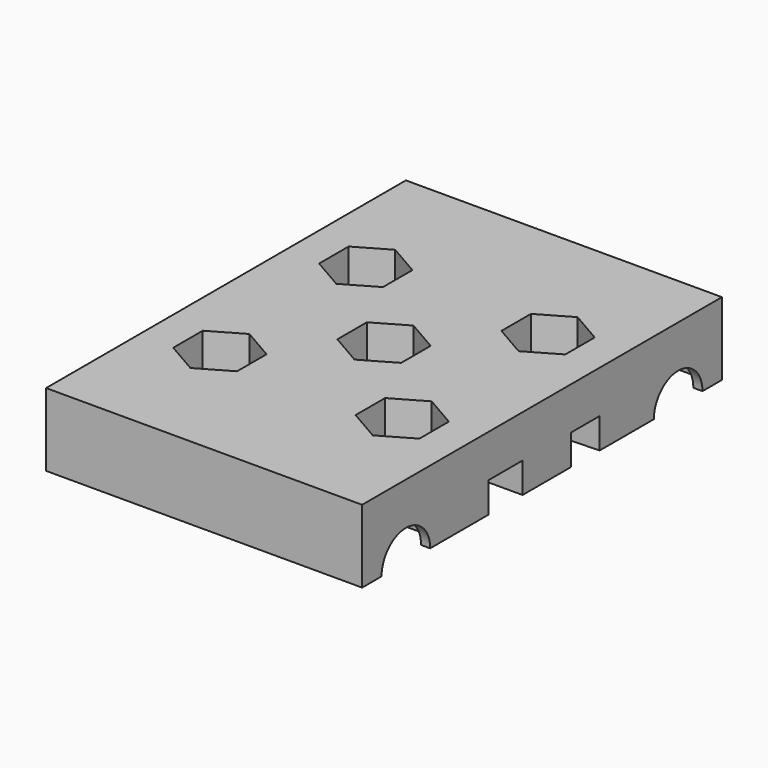
from build123d import *

# Parameters (mm, degrees)
PAD001_DEPTH      = 5
CYLINDER001_R     = 7.75
CYLINDER001_DEPTH = 24.5
CYLINDER_R        = 5
CYLINDER_DEPTH    = 90
SKETCH_W          = 52
SKETCH_H          = 74
PAD_DEPTH         = 12
POCKET_DEPTH      = 6
SKETCH004_R       = 3.3
POCKET001_DEPTH   = 6.001
POCKET002_DEPTH   = 5
SKETCH006_W       = 52
SKETCH006_H       = 7
POCKET003_DEPTH   = 5


with BuildPart() as beltholderpad:
    # Sketch003 → Pad001 (new body)
    with BuildSketch(Plane.XY):
        with BuildLine():
            ThreePointArc((0, 6), (0.2595, 6.063605), (0.460174, 6.24))
            ThreePointArc((0.460174, 6.24), (0.541791, 6.413802), (0.588686, 6.6))
            ThreePointArc((0.738686, 6.75), (0.63262, 6.706066), (0.588686, 6.6))
            Line((0.738686, 6.75), (1.261311, 6.75))
            ThreePointArc((1.411314, 6.6), (1.367379, 6.706067), (1.261311, 6.75))
            ThreePointArc((1.411314, 6.6), (1.458209, 6.413802), (1.539826, 6.24))
            ThreePointArc((1.539826, 6.24), (1.7405, 6.063605), (2, 6))
            Line((2, 6), (2, 7.38))
            Line((0, 7.38), (2, 7.38))
            Line((0, 6), (0, 7.38))
        make_face()
    extrude(amount=PAD001_DEPTH)


with BuildPart() as clone_of_beltholderpad:
    # Clone base: copy of BeltHolderPad
    add(beltholderpad.part)


with BuildPart() as clone_of_beltholderpad_1:
    # Clone placement: moved
    add(clone_of_beltholderpad.part.moved(Location((2, 0, 0))))


with BuildPart() as beltholderfusion1:
    # Fusion003 base: copy of BeltHolderPad
    add(beltholderpad.part)

    # Fusion003: union Clone of BeltHolderPad
    add(clone_of_beltholderpad_1.part)


with BuildPart() as clone_of_beltholderfusion1:
    # Clone001 base: copy of BeltHolderFusion1
    add(beltholderfusion1.part)


with BuildPart() as clone_of_beltholderfusion1_1:
    # Clone001 placement: moved
    add(clone_of_beltholderfusion1.part.moved(Location((4, 0, 0))))


with BuildPart() as beltholderfusion2:
    # Fusion004 base: copy of BeltHolderFusion1
    add(beltholderfusion1.part)

    # Fusion004: union Clone of BeltHolderFusion1
    add(clone_of_beltholderfusion1_1.part)


with BuildPart() as clone_of_beltholderfusion2:
    # Clone002 base: copy of BeltHolderFusion2
    add(beltholderfusion2.part)


with BuildPart() as clone_of_beltholderfusion2_1:
    # Clone002 placement: moved
    add(clone_of_beltholderfusion2.part.moved(Location((8, 0, 0))))


with BuildPart() as beltholderfusion3:
    # Fusion005 base: copy of BeltHolderFusion2
    add(beltholderfusion2.part)

    # Fusion005: union Clone of BeltHolderFusion2
    add(clone_of_beltholderfusion2_1.part)


with BuildPart() as clone_of_beltholderfusion3:
    # Clone003 base: copy of BeltHolderFusion3
    add(beltholderfusion3.part)


with BuildPart() as clone_of_beltholderfusion3_1:
    # Clone003 placement: moved
    add(clone_of_beltholderfusion3.part.moved(Location((16, 0, 0))))


with BuildPart() as beltholderfusion4:
    # Fusion006 base: copy of BeltHolderFusion3
    add(beltholderfusion3.part)

    # Fusion006: union Clone of BeltHolderFusion3
    add(clone_of_beltholderfusion3_1.part)


with BuildPart() as clone_of_beltholderfusion4:
    # Clone004 base: copy of BeltHolderFusion4
    add(beltholderfusion4.part)


with BuildPart() as clone_of_beltholderfusion4_1:
    # Clone004 placement: moved
    add(clone_of_beltholderfusion4.part.moved(Location((32, 0, 0))))


with BuildPart() as beltholderfusion5:
    # Fusion007 base: copy of BeltHolderFusion4
    add(beltholderfusion4.part)

    # Fusion007: union Clone of BeltHolderFusion4
    add(clone_of_beltholderfusion4_1.part)


with BuildPart() as obj1:
    # Part__Mirroring003: instance of BeltHolderFusion5
    add(beltholderfusion5.part.mirror(Plane(origin=(0, 0, 0), x_dir=(0, -1, 0), z_dir=(1, 0, 0))))

    # Fusion008: union BeltHolderFusion5
    add(beltholderfusion5.part)


with BuildPart() as bearingcylinder:
    # Cylinder001 → Cylinder001 (new body)
    with BuildSketch(Plane(origin=(0, 28, 0), x_dir=(0, 0, 1), z_dir=(-1, 0, 0))):
        Circle(CYLINDER001_R)
    extrude(amount=CYLINDER001_DEPTH)


with BuildPart() as bearingfusion1:
    # Part__Mirroring001: instance of BearingCylinder
    add(bearingcylinder.part.mirror(Plane(origin=(0, 0, 0), x_dir=(0, -1, 0), z_dir=(1, 0, 0))))

    # Fusion001: union BearingCylinder
    add(bearingcylinder.part)


with BuildPart() as obj2:
    # Part__Mirroring002: instance of BearingFusion1
    add(bearingfusion1.part.mirror(Plane(origin=(0, 0, 0), x_dir=(1, 0, 0), z_dir=(0, 1, 0))))

    # Fusion002: union BearingFusion1
    add(bearingfusion1.part)


with BuildPart() as rodcylinder:
    # Cylinder → Cylinder (new body)
    with BuildSketch(Plane(origin=(45, 28, 0), x_dir=(0, 0, 1), z_dir=(-1, 0, 0))):
        Circle(CYLINDER_R)
    extrude(amount=CYLINDER_DEPTH)


with BuildPart() as rodcylinderfusion:
    # Part__Mirroring: instance of RodCylinder
    add(rodcylinder.part.mirror(Plane(origin=(0, 0, 0), x_dir=(1, 0, 0), z_dir=(0, 1, 0))))

    # Fusion: union RodCylinder
    add(rodcylinder.part)


with BuildPart() as beltpassagepocket:
    # Sketch → Pad (new body)
    with BuildSketch(Plane.XY):
        Rectangle(SKETCH_W, SKETCH_H)
    extrude(amount=PAD_DEPTH)

    # Cut: cut RodCylinderFusion
    add(rodcylinderfusion.part, mode=Mode.SUBTRACT)

    # Cut001: cut obj2
    add(obj2.part, mode=Mode.SUBTRACT)

    # Sketch001 (on Face5 of Cut001) → Pocket (cut)
    with BuildSketch(Plane.XY.offset(12)):
        Polygon((-9.75, 11.968911), (-9.75, 18.031089), (-15, 21.062178), (-20.25, 18.031089), (-20.25, 11.968911), (-15, 8.937822), align=None)
        Polygon((15, 8.937822), (20.25, 11.968911), (20.25, 18.031089), (15, 21.062178), (9.75, 18.031089), (9.75, 11.968911), align=None)
        Polygon((-15, -21.062178), (-9.75, -18.031089), (-9.75, -11.968911), (-15, -8.937822), (-20.25, -11.968911), (-20.25, -18.031089), align=None)
        Polygon((15, -21.062178), (20.25, -18.031089), (20.25, -11.968911), (15, -8.937822), (9.75, -11.968911), (9.75, -18.031089), align=None)
        Polygon((5.25, 3.031089), (0, 6.062178), (-5.25, 3.031089), (-5.25, -3.031089), (0, -6.062178), (5.25, -3.031089), align=None)
    extrude(amount=-POCKET_DEPTH, mode=Mode.SUBTRACT)

    # Cut002: cut obj1
    add(obj1.part, mode=Mode.SUBTRACT)

    # Sketch004 (on Face274 of Cut002) → Pocket001 (cut, through all)
    with BuildSketch(Plane.XY.offset(6)):
        with Locations((-15, 15)):
            Circle(SKETCH004_R)
        Circle(SKETCH004_R)
        with Locations((15, 15)):
            Circle(SKETCH004_R)
        with Locations((15, -15)):
            Circle(SKETCH004_R)
        with Locations((-15, -15)):
            Circle(SKETCH004_R)
    extrude(amount=-POCKET001_DEPTH, mode=Mode.SUBTRACT)

    # Sketch005 (on Face13 of Pocket001) → Pocket002 (cut)
    with BuildSketch(Plane(origin=(0, 0, 0), x_dir=(1, 0, 0), z_dir=(0, 0, -1))):
        Polygon((-26, -7.38), (26, -7.38), (26, -11.85), (0, -11), (-26, -11.85), align=None)
    extrude(amount=-POCKET002_DEPTH, mode=Mode.SUBTRACT)

    # Sketch006 (on Face9 of Pocket002) → Pocket003 (cut)
    with BuildSketch(Plane(origin=(0, 0, 0), x_dir=(1, 0, 0), z_dir=(0, 0, -1))):
        with Locations((0, 7.5)):
            Rectangle(SKETCH006_W, SKETCH006_H)
    extrude(amount=-POCKET003_DEPTH, mode=Mode.SUBTRACT)


solid = beltpassagepocket.part
